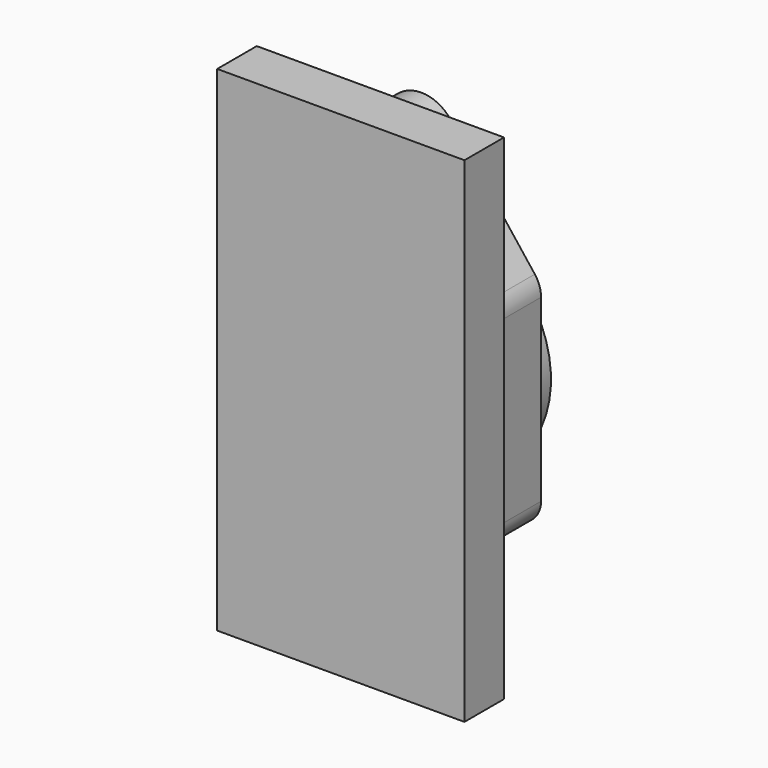
from build123d import *

# Parameters (mm, degrees)
F0_W      = 100
F0_H      = 200
F1_DEPTH  = 20
F3_DEPTH  = 10
F5_DEPTH  = 20
F6_R      = 45
F6_R_2    = 30
F7_DEPTH  = 10
F8_R      = 30
F9_DEPTH  = 22
F10_R     = 5
F11_DEPTH = 25


with BuildPart() as f1:
    # F0 (on Front) → F1 (new body)
    with BuildSketch(Plane.XZ):
        with Locations((50, -100)):
            Rectangle(F0_W, F0_H)
    extrude(amount=F1_DEPTH)

    # F2 (on face) → F3 (cut)
    with BuildSketch(Plane(origin=(0, 0, 0), x_dir=(-1, 0, 0), z_dir=(0, 1, 0))):
        with BuildLine():
            ThreePointArc((-90, -178), (-86.485281, -186.485281), (-78, -190))
            Line((-78, -190), (-22, -190))
            ThreePointArc((-22, -190), (-13.514719, -186.485281), (-10, -178))
            Line((-10, -178), (-10, -172))
            ThreePointArc((-10, -172), (-13.514719, -163.514719), (-22, -160))
            Line((-22, -160), (-78, -160))
            ThreePointArc((-78, -160), (-86.485281, -163.514719), (-90, -172))
            Line((-90, -172), (-90, -178))
        make_face()
    extrude(amount=-F3_DEPTH, mode=Mode.SUBTRACT)

    # F4 (on face) → F5 (join)
    with BuildSketch(Plane(origin=(0, 0, 0), x_dir=(-1, 0, 0), z_dir=(0, 1, 0))):
        with BuildLine():
            Line((-89, -148), (-11, -148))
            ThreePointArc((-11, -148), (-3.928932, -145.071068), (-1, -138))
            Line((-1, -138), (-1, -65.448764))
            ThreePointArc((-1, -65.448764), (-1.676281, -61.477192), (-3.628897, -57.95327))
            Line((-3.628897, -57.95327), (-39.39, -13.243608))
            ThreePointArc((-39.39, -13.243608), (-52.117284, -8.319647), (-63.566855, -15.745039))
            Line((-63.566855, -15.745039), (-96.467366, -57.988184))
            ThreePointArc((-96.467366, -57.988184), (-98.349194, -61.463537), (-99, -65.361716))
            Line((-99, -65.361716), (-99, -138))
            ThreePointArc((-99, -138), (-96.071068, -145.071068), (-89, -148))
        make_face()
    extrude(amount=F5_DEPTH)

    # F6 (on face) → F7 (join)
    with BuildSketch(Plane(origin=(0, 20, 0), x_dir=(-1, 0, 0), z_dir=(0, 1, 0))):
        with Locations((-50, -100)):
            Circle(F6_R)
        with Locations((-50, -100)):
            Circle(F6_R_2, mode=Mode.SUBTRACT)
    extrude(amount=F7_DEPTH)

    # F8 (on face) → F9 (cut)
    with BuildSketch(Plane(origin=(0, 20, 0), x_dir=(-1, 0, 0), z_dir=(0, 1, 0))):
        with Locations((-50, -100)):
            Circle(F8_R)
    extrude(amount=-F9_DEPTH, mode=Mode.SUBTRACT)

    # F10 (on face) → F11 (cut)
    with BuildSketch(Plane(origin=(0, 30, 0), x_dir=(-1, 0, 0), z_dir=(0, 1, 0))):
        with Locations((-87.5, -100)):
            Circle(F10_R)
        with Locations((-12.5, -100)):
            Circle(F10_R)
        with Locations((-50, -137.5)):
            Circle(F10_R)
        with Locations((-50, -62.5)):
            Circle(F10_R)
    extrude(amount=-F11_DEPTH, mode=Mode.SUBTRACT)


solid = f1.part
